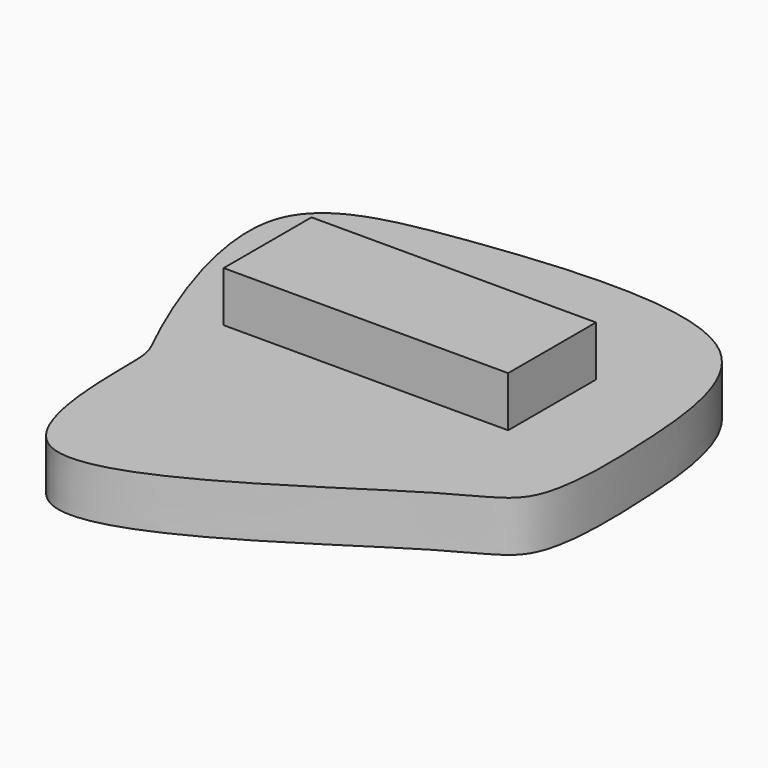
from build123d import *

# Parameters (mm, degrees)
F1_DEPTH = 25
F2_W     = 141.3511112332
F2_H     = 54.5597672462
F3_DEPTH = 25


with BuildPart() as f1:
    # F0 (on Top) → F1 (new body)
    with BuildSketch(Plane.XY):
        with BuildLine():
            add(Edge.make_bspline(
                [(-89.0085697174, -43.6099767685), (-89.3113640386, -35.3287352979), (-92.6975034798, -30.7760996088), (-149.397748311, 97.4032124414), (-49.9113575686, 117.2030673211), (98.7494512613, 130.2659899387), (109.0931321076, 27.3536955528), (109.0606115261, -43.1606559469), (71.0823284241, -53.0098197574), (-94.0308158749, -177.2828753939), (-88.3672172166, -61.1505795968), (-89.0085697174, -43.6099767685)],
                knots=[0, 0, 0, 0, 0.0529869005, 0.183781919, 0.2949013446, 0.4391822839, 0.5543579998, 0.6530388404, 0.7329403594, 0.8877677724, 1, 1, 1, 1], degree=3))
        make_face()
    extrude(amount=F1_DEPTH)

    # F2 (on face) → F3 (join)
    with BuildSketch(Plane.XY.offset(25)):
        with Locations((-9.9998824298, 27.2798836231)):
            Rectangle(F2_W, F2_H)
    extrude(amount=F3_DEPTH)


solid = f1.part
